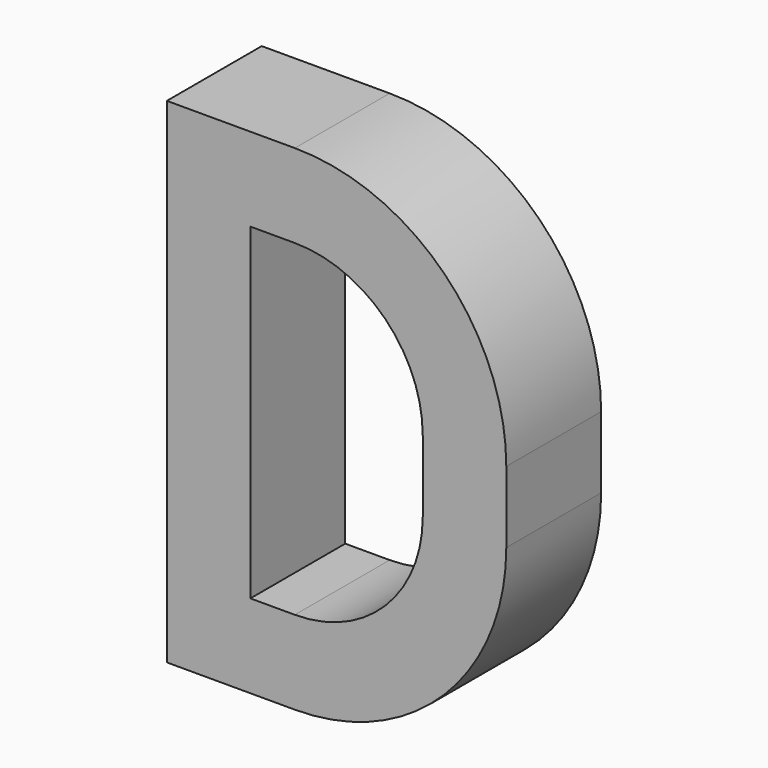
from build123d import *

# Parameters (mm, degrees)
F1_DEPTH = 12.7
F2_DEPTH = 12.7


with BuildPart() as f1:
    # F0 (on Front) → F1 (new body)
    with BuildSketch(Plane.XZ):
        with BuildLine():
            Line((-43.261304, 3.828095), (-52.208334, 3.828095))
            Line((-52.208334, 3.828095), (-52.208334, -22.648397))
            Line((-52.208334, -22.648397), (-38.501772, -22.648397))
            ThreePointArc((-38.501772, -22.648397), (-22.486937, -16.014835), (-15.853375, 0))
            Line((-15.853375, 0), (-15.853375, 3.828095))
            Line((-15.853375, 3.828095), (-24.800405, 3.828095))
            Line((-24.800405, 3.828095), (-24.800405, 0))
            ThreePointArc((-24.800405, 0), (-28.813443, -9.68833), (-38.501772, -13.701367))
            Line((-38.501772, -13.701367), (-43.261304, -13.701367))
            Line((-43.261304, -13.701367), (-43.261304, 3.828095))
        make_face()
    extrude(amount=F1_DEPTH)

    # F0 (on Front) → F2 (join)
    with BuildSketch(Plane.XZ):
        with BuildLine():
            Line((-38.501772, 30.304587), (-52.208334, 30.304587))
            Line((-52.208334, 30.304587), (-52.208334, 3.828095))
            Line((-52.208334, 3.828095), (-43.261304, 3.828095))
            Line((-43.261304, 3.828095), (-43.261304, 21.357557))
            Line((-43.261304, 21.357557), (-38.501772, 21.357557))
            ThreePointArc((-38.501772, 21.357557), (-28.813443, 17.34452), (-24.800405, 7.65619))
            Line((-24.800405, 7.65619), (-24.800405, 3.828095))
            Line((-24.800405, 3.828095), (-15.853375, 3.828095))
            Line((-15.853375, 3.828095), (-15.853375, 7.65619))
            ThreePointArc((-15.853375, 7.65619), (-22.486937, 23.671025), (-38.501772, 30.304587))
        make_face()
        with BuildLine():
            Line((-43.261304, 3.828095), (-52.208334, 3.828095))
            Line((-52.208334, 3.828095), (-52.208334, -22.648397))
            Line((-52.208334, -22.648397), (-38.501772, -22.648397))
            ThreePointArc((-38.501772, -22.648397), (-22.486937, -16.014835), (-15.853375, 0))
            Line((-15.853375, 0), (-15.853375, 3.828095))
            Line((-15.853375, 3.828095), (-24.800405, 3.828095))
            Line((-24.800405, 3.828095), (-24.800405, 0))
            ThreePointArc((-24.800405, 0), (-28.813443, -9.68833), (-38.501772, -13.701367))
            Line((-38.501772, -13.701367), (-43.261304, -13.701367))
            Line((-43.261304, -13.701367), (-43.261304, 3.828095))
        make_face()
    extrude(amount=F2_DEPTH)


solid = f1.part
